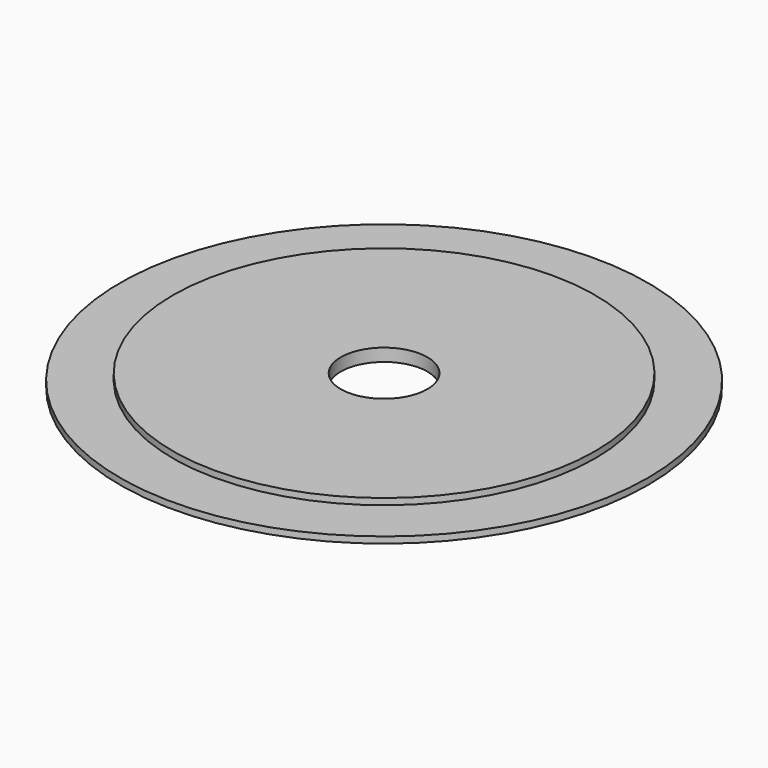
from build123d import *

# Parameters (mm, degrees)
F0_R        = 100
F0_R_2      = 20.5
F1_DEPTH    = 3
F2_R        = 125
F2_R_2      = 45
F1_FACE_R   = 100
F1_FACE_R_2 = 20.5
F3_DEPTH    = 3


with BuildPart() as f1:
    # F0 (on Top) → F1 (new body)
    with BuildSketch(Plane.XY):
        Circle(F0_R)
        Circle(F0_R_2, mode=Mode.SUBTRACT)
    extrude(amount=F1_DEPTH)

    # F2 (on Top) + F1_face (on face) → F3 (join)
    with BuildSketch(Plane.XY):
        Circle(F2_R)
        Circle(F2_R_2, mode=Mode.SUBTRACT)
    with BuildSketch(Plane.XY.offset(3)):
        Circle(F1_FACE_R)
        Circle(F1_FACE_R_2, mode=Mode.SUBTRACT)
    extrude(amount=F3_DEPTH)


solid = f1.part
